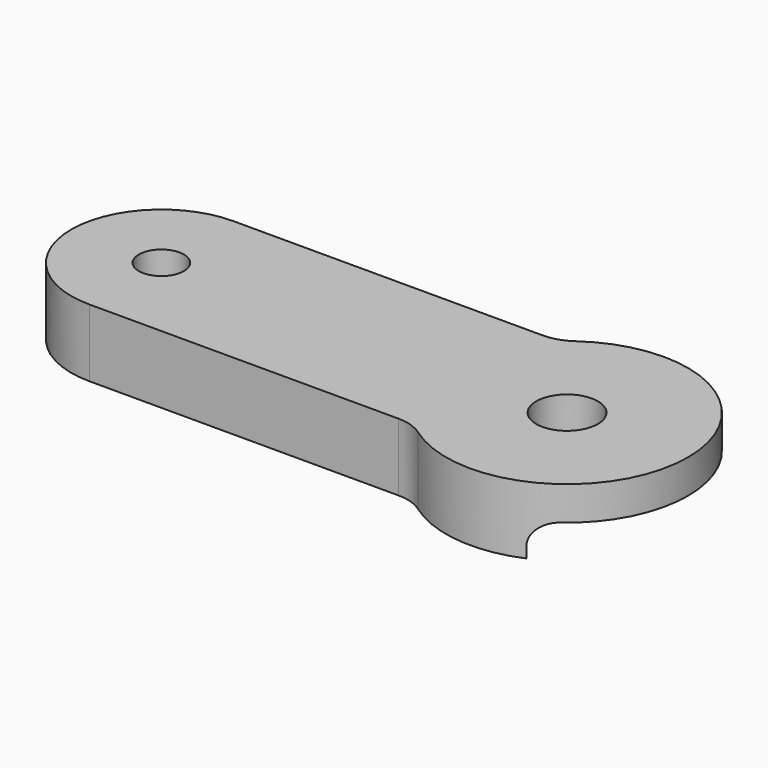
from build123d import *

# Parameters (mm, degrees)
F0_R     = 3.175
F0_R_2   = 4.3434
F1_DEPTH = 9.525
F2_R     = 4.3434
F3_DEPTH = 4.7498
F4_R     = 3.302


with BuildPart() as f1:
    # F0 (on Top) → F1 (new body)
    with BuildSketch(Plane.XY):
        with BuildLine():
            ThreePointArc((-13.577506, -12.7), (-11.642746, -13.001925), (-9.891972, -13.87899))
            ThreePointArc((-9.891972, -13.87899), (17.0434, 0), (-9.891972, 13.87899))
            ThreePointArc((-9.891972, 13.87899), (-11.642746, 13.001925), (-13.577506, 12.7))
            Line((-13.577506, 12.7), (-57.15, 12.7))
            ThreePointArc((-57.15, 12.7), (-69.85, 0), (-57.15, -12.7))
            Line((-57.15, -12.7), (-13.577506, -12.7))
        make_face()
        with Locations((-57.15, 0)):
            Circle(F0_R, mode=Mode.SUBTRACT)
        Circle(F0_R_2, mode=Mode.SUBTRACT)
    extrude(amount=F1_DEPTH)

    # F2 (on face) → F3 (cut)
    with BuildSketch(Plane(origin=(0, 0, 0), x_dir=(1, 0, 0), z_dir=(0, 0, -1))):
        with BuildLine():
            Line((6.770692, 15.640819), (-5.08, 8.798818))
            ThreePointArc((-5.08, 8.798818), (-8.798818, 5.08), (-10.16, 0))
            ThreePointArc((-10.16, 0), (-8.798818, -5.08), (-5.08, -8.798818))
            Line((-5.08, -8.798818), (6.770692, -15.640819))
            ThreePointArc((6.770692, -15.640819), (17.0434, 0), (6.770692, 15.640819))
        make_face()
        Circle(F2_R, mode=Mode.SUBTRACT)
    extrude(amount=-F3_DEPTH, mode=Mode.SUBTRACT)

    # F4
    f4_edges = [f1.edges().sort_by_distance(p)[0] for p in [
        (0.845346, -12.219818, 4.7498),
    ]]
    fillet(f4_edges, radius=F4_R)


solid = f1.part
